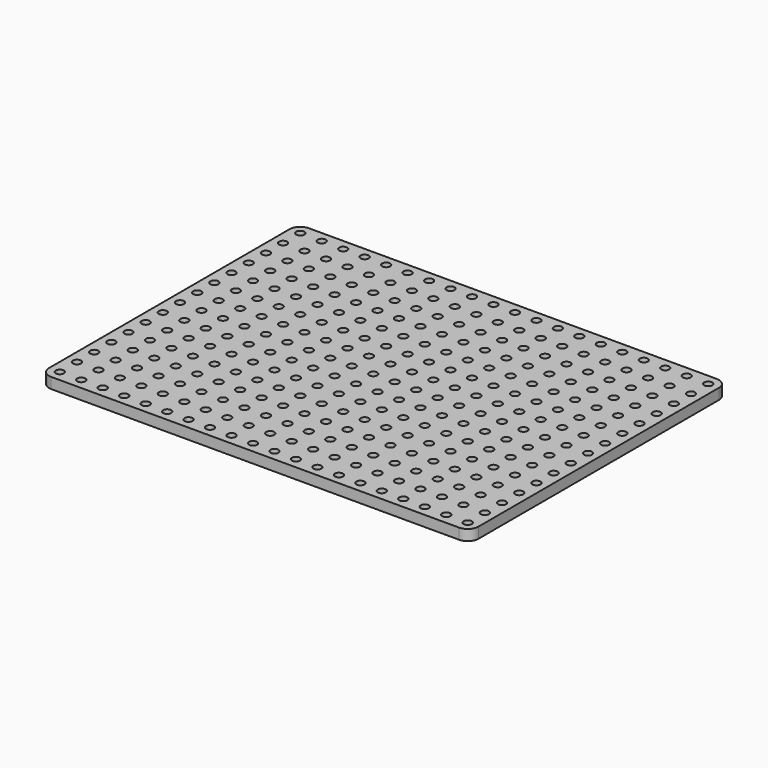
from build123d import *

# Parameters (mm, degrees)
F1_DEPTH = 3.175
F2_R     = 1.1938
F3_DEPTH = 3.176


with BuildPart() as f1:
    # F0 (on Top) → F1 (new body)
    with BuildSketch(Plane.XY):
        with BuildLine():
            ThreePointArc((0, 3.175), (0.929936, 0.929936), (3.175, 0))
            Line((3.175, 0), (123.825, 0))
            ThreePointArc((123.825, 0), (126.070064, 0.929936), (127, 3.175))
            Line((127, 3.175), (127, 92.075))
            ThreePointArc((127, 92.075), (126.070064, 94.320064), (123.825, 95.25))
            Line((123.825, 95.25), (3.175, 95.25))
            ThreePointArc((3.175, 95.25), (0.929936, 94.320064), (0, 92.075))
            Line((0, 92.075), (0, 3.175))
        make_face()
    extrude(amount=F1_DEPTH)

    # F2 (on face) → F3 (cut, through all)
    with BuildSketch(Plane.XY.offset(3.175)):
        with Locations((3.175, 3.175)):
            Circle(F2_R)
        with Locations((3.175, 9.525)):
            Circle(F2_R)
        with Locations((3.175, 15.875)):
            Circle(F2_R)
        with Locations((3.175, 22.225)):
            Circle(F2_R)
        with Locations((3.175, 28.575)):
            Circle(F2_R)
        with Locations((3.175, 34.925)):
            Circle(F2_R)
        with Locations((3.175, 41.275)):
            Circle(F2_R)
        with Locations((3.175, 47.625)):
            Circle(F2_R)
        with Locations((3.175, 53.975)):
            Circle(F2_R)
        with Locations((3.175, 60.325)):
            Circle(F2_R)
        with Locations((3.175, 66.675)):
            Circle(F2_R)
        with Locations((3.175, 73.025)):
            Circle(F2_R)
        with Locations((3.175, 79.375)):
            Circle(F2_R)
        with Locations((3.175, 85.725)):
            Circle(F2_R)
        with Locations((3.175, 92.075)):
            Circle(F2_R)
        with Locations((9.525, 3.175)):
            Circle(F2_R)
        with Locations((9.525, 9.525)):
            Circle(F2_R)
        with Locations((9.525, 15.875)):
            Circle(F2_R)
        with Locations((9.525, 22.225)):
            Circle(F2_R)
        with Locations((9.525, 28.575)):
            Circle(F2_R)
        with Locations((9.525, 34.925)):
            Circle(F2_R)
        with Locations((9.525, 41.275)):
            Circle(F2_R)
        with Locations((9.525, 47.625)):
            Circle(F2_R)
        with Locations((9.525, 53.975)):
            Circle(F2_R)
        with Locations((9.525, 60.325)):
            Circle(F2_R)
        with Locations((9.525, 66.675)):
            Circle(F2_R)
        with Locations((9.525, 73.025)):
            Circle(F2_R)
        with Locations((9.525, 79.375)):
            Circle(F2_R)
        with Locations((9.525, 85.725)):
            Circle(F2_R)
        with Locations((9.525, 92.075)):
            Circle(F2_R)
        with Locations((15.875, 3.175)):
            Circle(F2_R)
        with Locations((15.875, 9.525)):
            Circle(F2_R)
        with Locations((15.875, 15.875)):
            Circle(F2_R)
        with Locations((15.875, 22.225)):
            Circle(F2_R)
        with Locations((15.875, 28.575)):
            Circle(F2_R)
        with Locations((15.875, 34.925)):
            Circle(F2_R)
        with Locations((15.875, 41.275)):
            Circle(F2_R)
        with Locations((15.875, 47.625)):
            Circle(F2_R)
        with Locations((15.875, 53.975)):
            Circle(F2_R)
        with Locations((15.875, 60.325)):
            Circle(F2_R)
        with Locations((15.875, 66.675)):
            Circle(F2_R)
        with Locations((15.875, 73.025)):
            Circle(F2_R)
        with Locations((15.875, 79.375)):
            Circle(F2_R)
        with Locations((15.875, 85.725)):
            Circle(F2_R)
        with Locations((15.875, 92.075)):
            Circle(F2_R)
        with Locations((22.225, 3.175)):
            Circle(F2_R)
        with Locations((22.225, 9.525)):
            Circle(F2_R)
        with Locations((22.225, 15.875)):
            Circle(F2_R)
        with Locations((22.225, 22.225)):
            Circle(F2_R)
        with Locations((22.225, 28.575)):
            Circle(F2_R)
        with Locations((22.225, 34.925)):
            Circle(F2_R)
        with Locations((22.225, 41.275)):
            Circle(F2_R)
        with Locations((22.225, 47.625)):
            Circle(F2_R)
        with Locations((22.225, 53.975)):
            Circle(F2_R)
        with Locations((22.225, 60.325)):
            Circle(F2_R)
        with Locations((22.225, 66.675)):
            Circle(F2_R)
        with Locations((22.225, 73.025)):
            Circle(F2_R)
        with Locations((22.225, 79.375)):
            Circle(F2_R)
        with Locations((22.225, 85.725)):
            Circle(F2_R)
        with Locations((22.225, 92.075)):
            Circle(F2_R)
        with Locations((28.575, 3.175)):
            Circle(F2_R)
        with Locations((28.575, 9.525)):
            Circle(F2_R)
        with Locations((28.575, 15.875)):
            Circle(F2_R)
        with Locations((28.575, 22.225)):
            Circle(F2_R)
        with Locations((28.575, 28.575)):
            Circle(F2_R)
        with Locations((28.575, 34.925)):
            Circle(F2_R)
        with Locations((28.575, 41.275)):
            Circle(F2_R)
        with Locations((28.575, 47.625)):
            Circle(F2_R)
        with Locations((28.575, 53.975)):
            Circle(F2_R)
        with Locations((28.575, 60.325)):
            Circle(F2_R)
        with Locations((28.575, 66.675)):
            Circle(F2_R)
        with Locations((28.575, 73.025)):
            Circle(F2_R)
        with Locations((28.575, 79.375)):
            Circle(F2_R)
        with Locations((28.575, 85.725)):
            Circle(F2_R)
        with Locations((28.575, 92.075)):
            Circle(F2_R)
        with Locations((34.925, 3.175)):
            Circle(F2_R)
        with Locations((34.925, 9.525)):
            Circle(F2_R)
        with Locations((34.925, 15.875)):
            Circle(F2_R)
        with Locations((34.925, 22.225)):
            Circle(F2_R)
        with Locations((34.925, 28.575)):
            Circle(F2_R)
        with Locations((34.925, 34.925)):
            Circle(F2_R)
        with Locations((34.925, 41.275)):
            Circle(F2_R)
        with Locations((34.925, 47.625)):
            Circle(F2_R)
        with Locations((34.925, 53.975)):
            Circle(F2_R)
        with Locations((34.925, 60.325)):
            Circle(F2_R)
        with Locations((34.925, 66.675)):
            Circle(F2_R)
        with Locations((34.925, 73.025)):
            Circle(F2_R)
        with Locations((34.925, 79.375)):
            Circle(F2_R)
        with Locations((34.925, 85.725)):
            Circle(F2_R)
        with Locations((34.925, 92.075)):
            Circle(F2_R)
        with Locations((41.275, 3.175)):
            Circle(F2_R)
        with Locations((41.275, 9.525)):
            Circle(F2_R)
        with Locations((41.275, 15.875)):
            Circle(F2_R)
        with Locations((41.275, 22.225)):
            Circle(F2_R)
        with Locations((41.275, 28.575)):
            Circle(F2_R)
        with Locations((41.275, 34.925)):
            Circle(F2_R)
        with Locations((41.275, 41.275)):
            Circle(F2_R)
        with Locations((41.275, 47.625)):
            Circle(F2_R)
        with Locations((41.275, 53.975)):
            Circle(F2_R)
        with Locations((41.275, 60.325)):
            Circle(F2_R)
        with Locations((41.275, 66.675)):
            Circle(F2_R)
        with Locations((41.275, 73.025)):
            Circle(F2_R)
        with Locations((41.275, 79.375)):
            Circle(F2_R)
        with Locations((41.275, 85.725)):
            Circle(F2_R)
        with Locations((41.275, 92.075)):
            Circle(F2_R)
        with Locations((47.625, 3.175)):
            Circle(F2_R)
        with Locations((47.625, 9.525)):
            Circle(F2_R)
        with Locations((47.625, 15.875)):
            Circle(F2_R)
        with Locations((47.625, 22.225)):
            Circle(F2_R)
        with Locations((47.625, 28.575)):
            Circle(F2_R)
        with Locations((47.625, 34.925)):
            Circle(F2_R)
        with Locations((47.625, 41.275)):
            Circle(F2_R)
        with Locations((47.625, 47.625)):
            Circle(F2_R)
        with Locations((47.625, 53.975)):
            Circle(F2_R)
        with Locations((47.625, 60.325)):
            Circle(F2_R)
        with Locations((47.625, 66.675)):
            Circle(F2_R)
        with Locations((47.625, 73.025)):
            Circle(F2_R)
        with Locations((47.625, 79.375)):
            Circle(F2_R)
        with Locations((47.625, 85.725)):
            Circle(F2_R)
        with Locations((47.625, 92.075)):
            Circle(F2_R)
        with Locations((53.975, 3.175)):
            Circle(F2_R)
        with Locations((53.975, 9.525)):
            Circle(F2_R)
        with Locations((53.975, 15.875)):
            Circle(F2_R)
        with Locations((53.975, 22.225)):
            Circle(F2_R)
        with Locations((53.975, 28.575)):
            Circle(F2_R)
        with Locations((53.975, 34.925)):
            Circle(F2_R)
        with Locations((53.975, 41.275)):
            Circle(F2_R)
        with Locations((53.975, 47.625)):
            Circle(F2_R)
        with Locations((53.975, 53.975)):
            Circle(F2_R)
        with Locations((53.975, 60.325)):
            Circle(F2_R)
        with Locations((53.975, 66.675)):
            Circle(F2_R)
        with Locations((53.975, 73.025)):
            Circle(F2_R)
        with Locations((53.975, 79.375)):
            Circle(F2_R)
        with Locations((53.975, 85.725)):
            Circle(F2_R)
        with Locations((53.975, 92.075)):
            Circle(F2_R)
        with Locations((60.325, 3.175)):
            Circle(F2_R)
        with Locations((60.325, 9.525)):
            Circle(F2_R)
        with Locations((60.325, 15.875)):
            Circle(F2_R)
        with Locations((60.325, 22.225)):
            Circle(F2_R)
        with Locations((60.325, 28.575)):
            Circle(F2_R)
        with Locations((60.325, 34.925)):
            Circle(F2_R)
        with Locations((60.325, 41.275)):
            Circle(F2_R)
        with Locations((60.325, 47.625)):
            Circle(F2_R)
        with Locations((60.325, 53.975)):
            Circle(F2_R)
        with Locations((60.325, 60.325)):
            Circle(F2_R)
        with Locations((60.325, 66.675)):
            Circle(F2_R)
        with Locations((60.325, 73.025)):
            Circle(F2_R)
        with Locations((60.325, 79.375)):
            Circle(F2_R)
        with Locations((60.325, 85.725)):
            Circle(F2_R)
        with Locations((60.325, 92.075)):
            Circle(F2_R)
        with Locations((66.675, 3.175)):
            Circle(F2_R)
        with Locations((66.675, 9.525)):
            Circle(F2_R)
        with Locations((66.675, 15.875)):
            Circle(F2_R)
        with Locations((66.675, 22.225)):
            Circle(F2_R)
        with Locations((66.675, 28.575)):
            Circle(F2_R)
        with Locations((66.675, 34.925)):
            Circle(F2_R)
        with Locations((66.675, 41.275)):
            Circle(F2_R)
        with Locations((66.675, 47.625)):
            Circle(F2_R)
        with Locations((66.675, 53.975)):
            Circle(F2_R)
        with Locations((66.675, 60.325)):
            Circle(F2_R)
        with Locations((66.675, 66.675)):
            Circle(F2_R)
        with Locations((66.675, 73.025)):
            Circle(F2_R)
        with Locations((66.675, 79.375)):
            Circle(F2_R)
        with Locations((66.675, 85.725)):
            Circle(F2_R)
        with Locations((66.675, 92.075)):
            Circle(F2_R)
        with Locations((73.025, 3.175)):
            Circle(F2_R)
        with Locations((73.025, 9.525)):
            Circle(F2_R)
        with Locations((73.025, 15.875)):
            Circle(F2_R)
        with Locations((73.025, 22.225)):
            Circle(F2_R)
        with Locations((73.025, 28.575)):
            Circle(F2_R)
        with Locations((73.025, 34.925)):
            Circle(F2_R)
        with Locations((73.025, 41.275)):
            Circle(F2_R)
        with Locations((73.025, 47.625)):
            Circle(F2_R)
        with Locations((73.025, 53.975)):
            Circle(F2_R)
        with Locations((73.025, 60.325)):
            Circle(F2_R)
        with Locations((73.025, 66.675)):
            Circle(F2_R)
        with Locations((73.025, 73.025)):
            Circle(F2_R)
        with Locations((73.025, 79.375)):
            Circle(F2_R)
        with Locations((73.025, 85.725)):
            Circle(F2_R)
        with Locations((73.025, 92.075)):
            Circle(F2_R)
        with Locations((79.375, 3.175)):
            Circle(F2_R)
        with Locations((79.375, 9.525)):
            Circle(F2_R)
        with Locations((79.375, 15.875)):
            Circle(F2_R)
        with Locations((79.375, 22.225)):
            Circle(F2_R)
        with Locations((79.375, 28.575)):
            Circle(F2_R)
        with Locations((79.375, 34.925)):
            Circle(F2_R)
        with Locations((79.375, 41.275)):
            Circle(F2_R)
        with Locations((79.375, 47.625)):
            Circle(F2_R)
        with Locations((79.375, 53.975)):
            Circle(F2_R)
        with Locations((79.375, 60.325)):
            Circle(F2_R)
        with Locations((79.375, 66.675)):
            Circle(F2_R)
        with Locations((79.375, 73.025)):
            Circle(F2_R)
        with Locations((79.375, 79.375)):
            Circle(F2_R)
        with Locations((79.375, 85.725)):
            Circle(F2_R)
        with Locations((79.375, 92.075)):
            Circle(F2_R)
        with Locations((85.725, 3.175)):
            Circle(F2_R)
        with Locations((85.725, 9.525)):
            Circle(F2_R)
        with Locations((85.725, 15.875)):
            Circle(F2_R)
        with Locations((85.725, 22.225)):
            Circle(F2_R)
        with Locations((85.725, 28.575)):
            Circle(F2_R)
        with Locations((85.725, 34.925)):
            Circle(F2_R)
        with Locations((85.725, 41.275)):
            Circle(F2_R)
        with Locations((85.725, 47.625)):
            Circle(F2_R)
        with Locations((85.725, 53.975)):
            Circle(F2_R)
        with Locations((85.725, 60.325)):
            Circle(F2_R)
        with Locations((85.725, 66.675)):
            Circle(F2_R)
        with Locations((85.725, 73.025)):
            Circle(F2_R)
        with Locations((85.725, 79.375)):
            Circle(F2_R)
        with Locations((85.725, 85.725)):
            Circle(F2_R)
        with Locations((85.725, 92.075)):
            Circle(F2_R)
        with Locations((92.075, 3.175)):
            Circle(F2_R)
        with Locations((92.075, 9.525)):
            Circle(F2_R)
        with Locations((92.075, 15.875)):
            Circle(F2_R)
        with Locations((92.075, 22.225)):
            Circle(F2_R)
        with Locations((92.075, 28.575)):
            Circle(F2_R)
        with Locations((92.075, 34.925)):
            Circle(F2_R)
        with Locations((92.075, 41.275)):
            Circle(F2_R)
        with Locations((92.075, 47.625)):
            Circle(F2_R)
        with Locations((92.075, 53.975)):
            Circle(F2_R)
        with Locations((92.075, 60.325)):
            Circle(F2_R)
        with Locations((92.075, 66.675)):
            Circle(F2_R)
        with Locations((92.075, 73.025)):
            Circle(F2_R)
        with Locations((92.075, 79.375)):
            Circle(F2_R)
        with Locations((92.075, 85.725)):
            Circle(F2_R)
        with Locations((92.075, 92.075)):
            Circle(F2_R)
        with Locations((98.425, 3.175)):
            Circle(F2_R)
        with Locations((98.425, 9.525)):
            Circle(F2_R)
        with Locations((98.425, 15.875)):
            Circle(F2_R)
        with Locations((98.425, 22.225)):
            Circle(F2_R)
        with Locations((98.425, 28.575)):
            Circle(F2_R)
        with Locations((98.425, 34.925)):
            Circle(F2_R)
        with Locations((98.425, 41.275)):
            Circle(F2_R)
        with Locations((98.425, 47.625)):
            Circle(F2_R)
        with Locations((98.425, 53.975)):
            Circle(F2_R)
        with Locations((98.425, 60.325)):
            Circle(F2_R)
        with Locations((98.425, 66.675)):
            Circle(F2_R)
        with Locations((98.425, 73.025)):
            Circle(F2_R)
        with Locations((98.425, 79.375)):
            Circle(F2_R)
        with Locations((98.425, 85.725)):
            Circle(F2_R)
        with Locations((98.425, 92.075)):
            Circle(F2_R)
        with Locations((104.775, 3.175)):
            Circle(F2_R)
        with Locations((104.775, 9.525)):
            Circle(F2_R)
        with Locations((104.775, 15.875)):
            Circle(F2_R)
        with Locations((104.775, 22.225)):
            Circle(F2_R)
        with Locations((104.775, 28.575)):
            Circle(F2_R)
        with Locations((104.775, 34.925)):
            Circle(F2_R)
        with Locations((104.775, 41.275)):
            Circle(F2_R)
        with Locations((104.775, 47.625)):
            Circle(F2_R)
        with Locations((104.775, 53.975)):
            Circle(F2_R)
        with Locations((104.775, 60.325)):
            Circle(F2_R)
        with Locations((104.775, 66.675)):
            Circle(F2_R)
        with Locations((104.775, 73.025)):
            Circle(F2_R)
        with Locations((104.775, 79.375)):
            Circle(F2_R)
        with Locations((104.775, 85.725)):
            Circle(F2_R)
        with Locations((104.775, 92.075)):
            Circle(F2_R)
        with Locations((111.125, 3.175)):
            Circle(F2_R)
        with Locations((111.125, 9.525)):
            Circle(F2_R)
        with Locations((111.125, 15.875)):
            Circle(F2_R)
        with Locations((111.125, 22.225)):
            Circle(F2_R)
        with Locations((111.125, 28.575)):
            Circle(F2_R)
        with Locations((111.125, 34.925)):
            Circle(F2_R)
        with Locations((111.125, 41.275)):
            Circle(F2_R)
        with Locations((111.125, 47.625)):
            Circle(F2_R)
        with Locations((111.125, 53.975)):
            Circle(F2_R)
        with Locations((111.125, 60.325)):
            Circle(F2_R)
        with Locations((111.125, 66.675)):
            Circle(F2_R)
        with Locations((111.125, 73.025)):
            Circle(F2_R)
        with Locations((111.125, 79.375)):
            Circle(F2_R)
        with Locations((111.125, 85.725)):
            Circle(F2_R)
        with Locations((111.125, 92.075)):
            Circle(F2_R)
        with Locations((117.475, 3.175)):
            Circle(F2_R)
        with Locations((117.475, 9.525)):
            Circle(F2_R)
        with Locations((117.475, 15.875)):
            Circle(F2_R)
        with Locations((117.475, 22.225)):
            Circle(F2_R)
        with Locations((117.475, 28.575)):
            Circle(F2_R)
        with Locations((117.475, 34.925)):
            Circle(F2_R)
        with Locations((117.475, 41.275)):
            Circle(F2_R)
        with Locations((117.475, 47.625)):
            Circle(F2_R)
        with Locations((117.475, 53.975)):
            Circle(F2_R)
        with Locations((117.475, 60.325)):
            Circle(F2_R)
        with Locations((117.475, 66.675)):
            Circle(F2_R)
        with Locations((117.475, 73.025)):
            Circle(F2_R)
        with Locations((117.475, 79.375)):
            Circle(F2_R)
        with Locations((117.475, 85.725)):
            Circle(F2_R)
        with Locations((117.475, 92.075)):
            Circle(F2_R)
        with Locations((123.825, 3.175)):
            Circle(F2_R)
        with Locations((123.825, 9.525)):
            Circle(F2_R)
        with Locations((123.825, 15.875)):
            Circle(F2_R)
        with Locations((123.825, 22.225)):
            Circle(F2_R)
        with Locations((123.825, 28.575)):
            Circle(F2_R)
        with Locations((123.825, 34.925)):
            Circle(F2_R)
        with Locations((123.825, 41.275)):
            Circle(F2_R)
        with Locations((123.825, 47.625)):
            Circle(F2_R)
        with Locations((123.825, 53.975)):
            Circle(F2_R)
        with Locations((123.825, 60.325)):
            Circle(F2_R)
        with Locations((123.825, 66.675)):
            Circle(F2_R)
        with Locations((123.825, 73.025)):
            Circle(F2_R)
        with Locations((123.825, 79.375)):
            Circle(F2_R)
        with Locations((123.825, 85.725)):
            Circle(F2_R)
        with Locations((123.825, 92.075)):
            Circle(F2_R)
    extrude(amount=-F3_DEPTH, mode=Mode.SUBTRACT)


solid = f1.part
